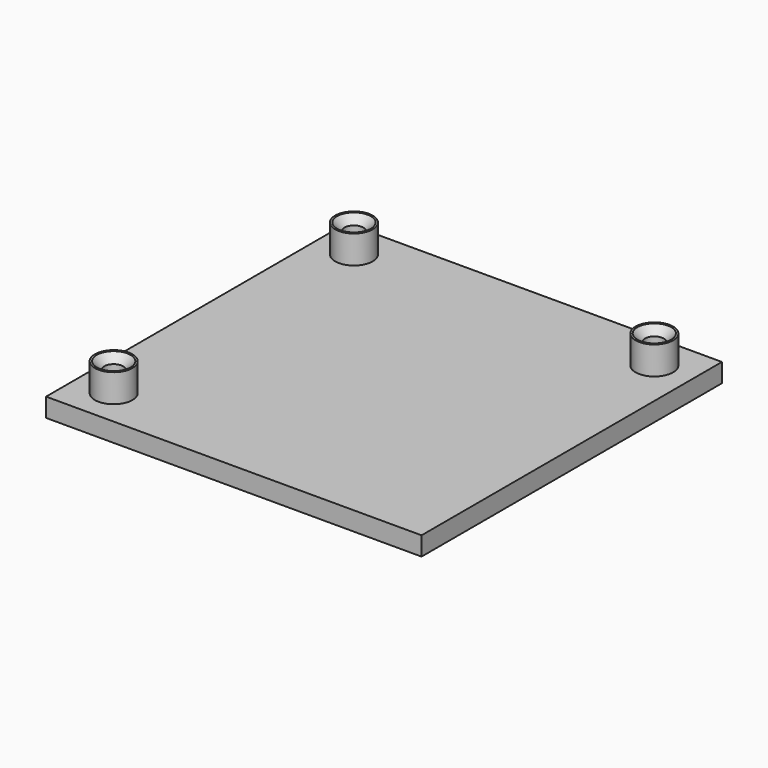
from build123d import *

# Parameters (mm, degrees)
F0_W     = 100
F0_H     = 100
F1_DEPTH = 5
F2_R     = 5
F2_R_2   = 2.5
F3_DEPTH = 5
F6_R     = 5
F6_R_2   = 2.5
F7_DEPTH = 2.5
F8_SIZE  = 2


with BuildPart() as f1:
    # F0 (on Top) → F1 (new body)
    with BuildSketch(Plane.XY):
        Rectangle(F0_W, F0_H)
    extrude(amount=F1_DEPTH)

    # F2 (on face) → F3 (join)
    with BuildSketch(Plane.XY.offset(5)):
        with Locations((-40, 40)):
            Circle(F2_R)
        with Locations((-40, 40)):
            Circle(F2_R_2, mode=Mode.SUBTRACT)
        with Locations((-40, -40)):
            Circle(F2_R)
        with Locations((-40, -40)):
            Circle(F2_R_2, mode=Mode.SUBTRACT)
        with Locations((40, 40)):
            Circle(F2_R)
        with Locations((40, 40)):
            Circle(F2_R_2, mode=Mode.SUBTRACT)
    extrude(amount=F3_DEPTH)

    # F6 (on face) → F7 (join)
    with BuildSketch(Plane.XY.offset(10)):
        with Locations((-40, -40)):
            Circle(F6_R)
        with Locations((-40, -40)):
            Circle(F6_R_2, mode=Mode.SUBTRACT)
        with Locations((40, 40)):
            Circle(F6_R)
        with Locations((40, 40)):
            Circle(F6_R_2, mode=Mode.SUBTRACT)
        with Locations((-40, 40)):
            Circle(F6_R)
        with Locations((-40, 40)):
            Circle(F6_R_2, mode=Mode.SUBTRACT)
    extrude(amount=F7_DEPTH)

    # F8
    f8_edges = [f1.edges().sort_by_distance(p)[0] for p in [
        (-42.5, 40, 12.5),
        (-42.5, -40, 12.5),
        (37.5, 40, 12.5),
    ]]
    chamfer(f8_edges, length=F8_SIZE)


solid = f1.part
